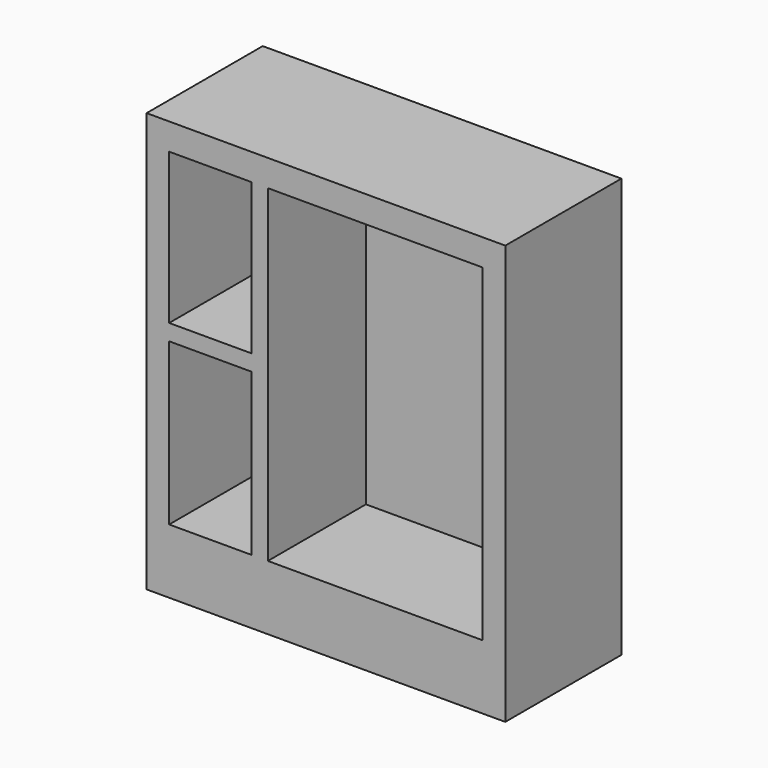
from build123d import *

# Parameters (mm, degrees)
F0_W     = 1112
F0_H     = 450
F1_DEPTH = 1300
F2_W     = 972
F2_H     = 1017.5
F3_DEPTH = 380
F4_W     = 50
F4_H     = 467.5
F4_H_2   = 50
F4_W_2   = 255.950524
F4_H_3   = 500
F5_DEPTH = 380


with BuildPart() as f1:
    # F0 (on Top) → F1 (new body)
    with BuildSketch(Plane.XY):
        Rectangle(F0_W, F0_H)
    extrude(amount=-F1_DEPTH)

    # F2 (on face) → F3 (cut)
    with BuildSketch(Plane.XZ.offset(225)):
        with Locations((0, -591.25)):
            Rectangle(F2_W, F2_H)
    extrude(amount=-F3_DEPTH, mode=Mode.SUBTRACT)

    # F4 (on face) → F5 (join)
    with BuildSketch(Plane.XZ.offset(225)):
        with Locations((-205.049476, -316.25)):
            Rectangle(F4_W, F4_H)
        with Locations((-205.049476, -575)):
            Rectangle(F4_W, F4_H_2)
        with Locations((-358.024738, -575)):
            Rectangle(F4_W_2, F4_H_2)
        with Locations((-205.049476, -850)):
            Rectangle(F4_W, F4_H_3)
    extrude(amount=-F5_DEPTH)


solid = f1.part
